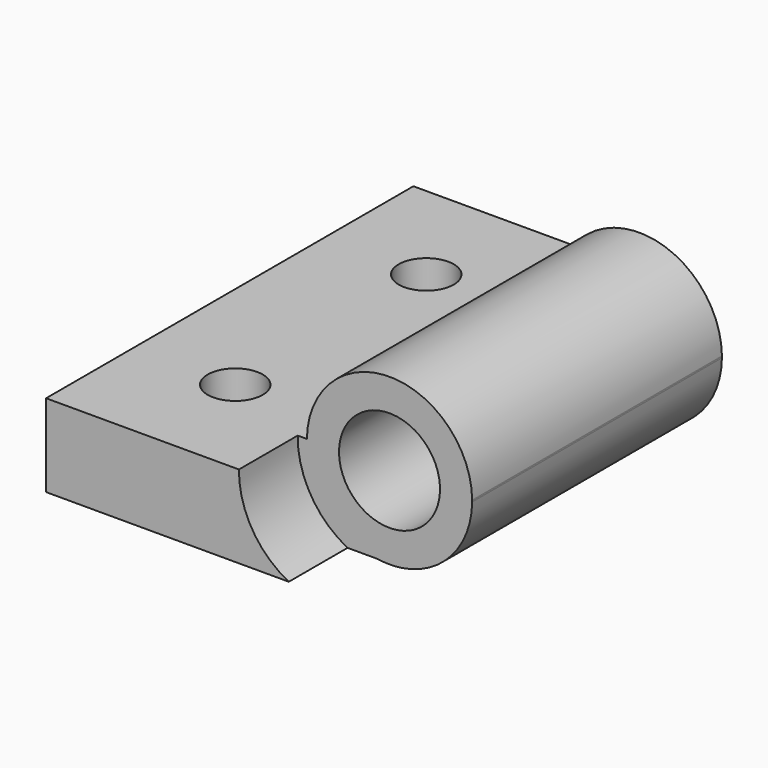
from build123d import *

# Parameters (mm, degrees)
F1_DEPTH  = 50
F2_R      = 3
F3_DEPTH  = 25
F5_R      = 10
F6_DEPTH  = 8
F7_R      = 10
F8_DEPTH  = 8
F9_R      = 5.5
F10_DEPTH = 42.001


with BuildPart() as f1:
    # F0 (on Front) → F1 (new body)
    with BuildSketch(Plane.XZ):
        with BuildLine():
            Line((0, 9), (0, 0))
            Line((0, 0), (29.635604, 0))
            ThreePointArc((29.635604, 0), (24.137281, 3.073959), (22.001204, 9))
            Line((22.001204, 9), (0, 9))
        make_face()
        with BuildLine():
            ThreePointArc((22.001204, 9), (24.137281, 3.073959), (29.635604, 0))
            Line((29.635604, 0), (32.3656, 0))
            ThreePointArc((32.3656, 0), (37.796114, 2.994952), (40, 8.791771))
            Line((40, 8.791771), (40, 9))
            ThreePointArc((40, 9), (31.000602, 17.895886), (22.001204, 9))
        make_face()
        with BuildLine():
            Line((32.3656, 0), (29.635604, 0))
            ThreePointArc((29.635604, 0), (31.000602, -0.104114), (32.3656, 0))
        make_face()
        with BuildLine():
            Line((40, 9), (40, 8.791771))
            ThreePointArc((40, 8.791771), (40.000452, 8.843828), (40.000602, 8.895886))
            ThreePointArc((40.000602, 8.895886), (40.000452, 8.947944), (40, 9))
        make_face()
    extrude(amount=-F1_DEPTH)

    # F2 (on face) → F3 (cut)
    with BuildSketch(Plane.XY.offset(9)):
        with Locations((11.000602, 38)):
            Circle(F2_R)
        with Locations((11.000602, 12)):
            Circle(F2_R)
    extrude(amount=-F3_DEPTH, mode=Mode.SUBTRACT)

    # F5 (on face) → F6 (cut)
    with BuildSketch(Plane.XZ):
        with Locations((31.000602, 8.895886)):
            Circle(F5_R)
    extrude(amount=-F6_DEPTH, mode=Mode.SUBTRACT)

    # F7 (on face) → F8 (cut)
    with BuildSketch(Plane(origin=(0, 50, 0), x_dir=(-1, 0, 0), z_dir=(0, 1, 0))):
        with Locations((-31.000602, 8.895886)):
            Circle(F7_R)
    extrude(amount=-F8_DEPTH, mode=Mode.SUBTRACT)

    # F9 (on face) → F10 (cut, through all)
    with BuildSketch(Plane(origin=(0, 42, 0), x_dir=(-1, 0, 0), z_dir=(0, 1, 0))):
        with Locations((-31.000602, 8.895886)):
            Circle(F9_R)
    extrude(amount=-F10_DEPTH, mode=Mode.SUBTRACT)


solid = f1.part
